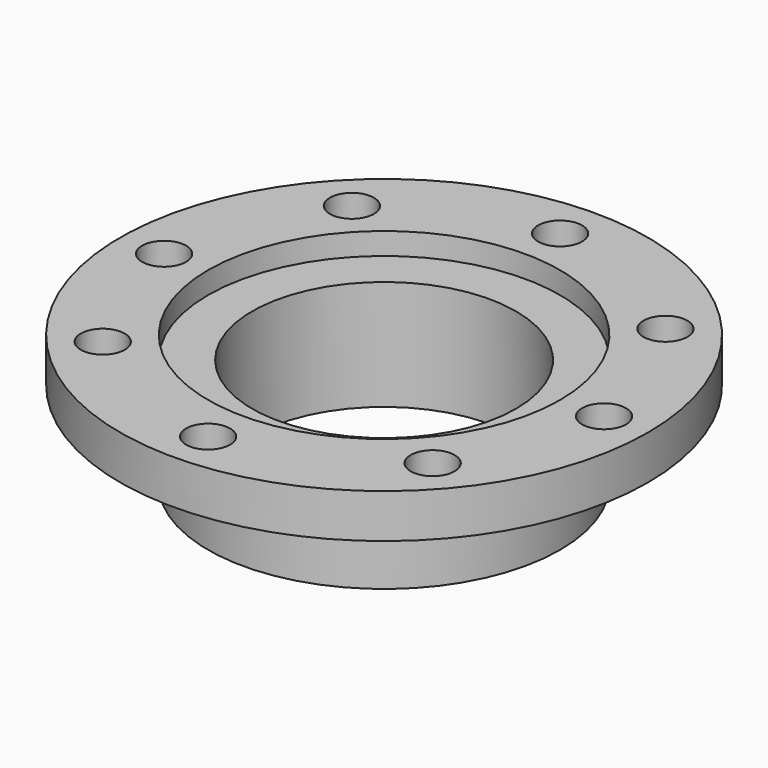
from build123d import *

# Parameters (mm, degrees)
F0_R     = 50.8
F0_R_2   = 38.1
F1_DEPTH = 31.75
F0_R_3   = 76.2
F0_R_4   = 6.35
F2_DEPTH = 6.35


with BuildPart() as f1:
    # F0 (on Top) → F1 (new body)
    with BuildSketch(Plane.XY):
        Circle(F0_R)
        Circle(F0_R_2, mode=Mode.SUBTRACT)
    extrude(amount=-F1_DEPTH)

    # F0 (on Top) → F2 (join, symmetric)
    with BuildSketch(Plane.XY):
        Circle(F0_R_3)
        with Locations((-47.502615, -42.139667)):
            Circle(F0_R_4, mode=Mode.SUBTRACT)
        with Locations((0, -63.5)):
            Circle(F0_R_4, mode=Mode.SUBTRACT)
        with Locations((47.622745, -42.003859)):
            Circle(F0_R_4, mode=Mode.SUBTRACT)
        with Locations((-63.5, 0)):
            Circle(F0_R_4, mode=Mode.SUBTRACT)
        with Locations((-45.076814, 44.725058)):
            Circle(F0_R_4, mode=Mode.SUBTRACT)
        Circle(F0_R, mode=Mode.SUBTRACT)
        with Locations((63.5, 0)):
            Circle(F0_R_4, mode=Mode.SUBTRACT)
        with Locations((0, 63.5)):
            Circle(F0_R_4, mode=Mode.SUBTRACT)
        with Locations((47.622745, 42.003859)):
            Circle(F0_R_4, mode=Mode.SUBTRACT)
    extrude(amount=F2_DEPTH, both=True)


solid = f1.part
